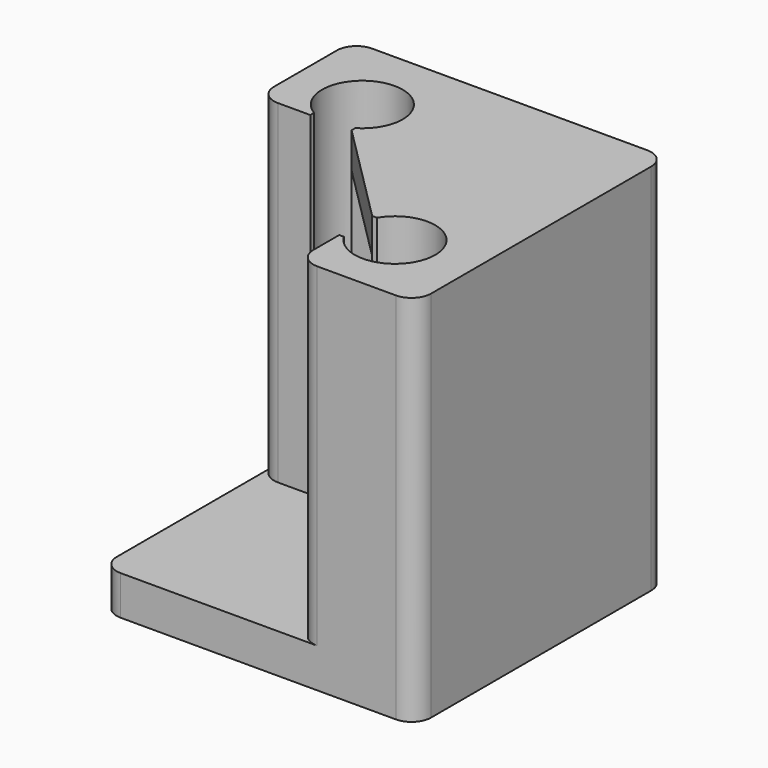
from build123d import *

# Parameters (mm, degrees)
PAD_DEPTH    = 17
SKETCH001_W  = 16
SKETCH001_H  = 16
PAD001_DEPTH = 2
PAD002_DEPTH = 1.8
FILLET_R     = 1


with BuildPart() as part:
    # Sketch → Pad (new body)
    with BuildSketch(Plane.XY):
        with BuildLine():
            Line((-10, 0), (-10, 6))
            Line((-10, 6), (6, 6))
            Line((6, 6), (6, -10))
            Line((6, -10), (0, -10))
            Line((0, -7.35), (0, -10))
            Line((0, -7.35), (0.239318, -7.35))
            ThreePointArc((0.239318, -7.35), (4.05, -6.3), (0.239318, -5.25))
            Line((0, -5.25), (0.239318, -5.25))
            Line((0, 0), (0, -5.25))
            Line((0, 0), (-5.25, 0))
            Line((-5.25, 0), (-5.25, 0.239318))
            ThreePointArc((-5.25, 0.239318), (-6.3, 4.05), (-7.35, 0.239318))
            Line((-7.35, 0), (-7.35, 0.239318))
            Line((-10, 0), (-7.35, 0))
        make_face()
    extrude(amount=PAD_DEPTH)

    # Sketch001 (on Face15 of Pad) → Pad001 (join)
    with BuildSketch(Plane(origin=(0, 0, 0), x_dir=(1, 0, 0), z_dir=(0, 0, -1))):
        with Locations((-2, 2)):
            Rectangle(SKETCH001_W, SKETCH001_H)
    extrude(amount=PAD001_DEPTH)

    # Sketch002 (on Face1 of Pad001) → Pad002 (join)
    with BuildSketch(Plane.XY.offset(17)):
        Polygon((-5.25, 0), (0, -5.25), (0, 0), align=None)
    extrude(amount=-PAD002_DEPTH)

    # Fillet
    fillet_edges = [part.edges().sort_by_distance(p)[0] for p in [
        (6, -10, 7.5),
        (6, 6, 7.5),
        (-10, 6, 7.5),
        (0, -10, 8.5),
        (-10, 0, 8.5),
        (-10, -10, -1),
    ]]
    fillet(fillet_edges, radius=FILLET_R)


solid = part.part
